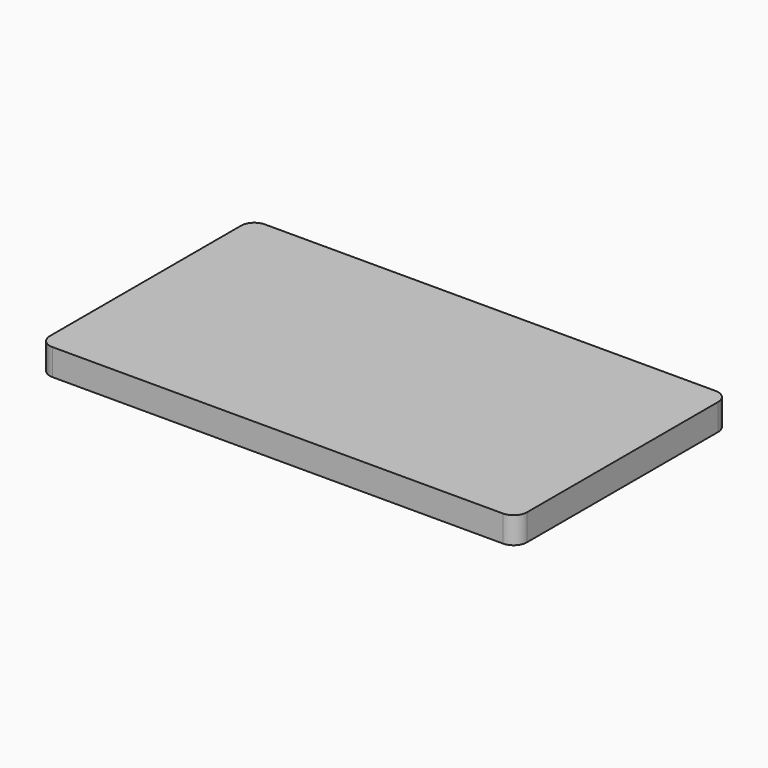
from build123d import *

# Parameters (mm, degrees)
F0_W     = 179.631859
F0_H     = 9.962251
F1_DEPTH = 50
F2_R     = 5


with BuildPart() as f1:
    # F0 (on Front) → F1 (new body, symmetric)
    with BuildSketch(Plane.XZ):
        with Locations((-29.264115, 8.716971)):
            Rectangle(F0_W, F0_H)
    extrude(amount=F1_DEPTH, both=True)

    # F2
    f2_edges = [f1.edges().sort_by_distance(p)[0] for p in [
        (60.551815, 50, 8.71697),
        (60.551815, -50, 8.71697),
        (-119.080044, -50, 8.71697),
        (-119.080044, 50, 8.71697),
    ]]
    fillet(f2_edges, radius=F2_R)


solid = f1.part
